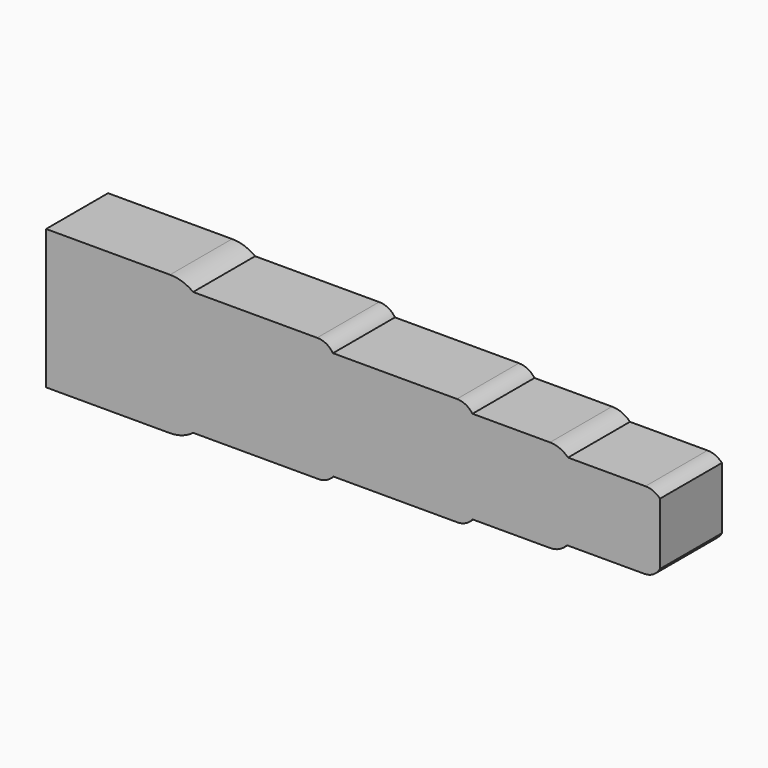
from build123d import *

# Parameters (mm, degrees)
F1_DEPTH = 25


with BuildPart() as f1:
    # F0 (on Front) → F1 (new body)
    with BuildSketch(Plane.XZ):
        with BuildLine():
            Line((-47.314354, 23.354447), (-87.314354, 23.354447))
            Line((-87.314354, 23.354447), (-87.314354, -21.645553))
            Line((-87.314354, -21.645553), (-47.314354, -21.645553))
            ThreePointArc((-47.314354, -21.645553), (-43.385175, -20.9974), (-39.872341, -19.121622))
            Line((-39.872341, -19.121622), (0.127659, -19.121622))
            ThreePointArc((0.127659, -19.121622), (3.004151, -18.596084), (5.330364, -16.824326))
            Line((5.330364, -16.824326), (45.330364, -16.824326))
            ThreePointArc((45.330364, -16.824326), (48.080166, -16.183156), (50.2628, -14.391893))
            Line((50.2628, -14.391893), (75.2628, -14.391893))
            ThreePointArc((75.2628, -14.391893), (78.280736, -13.717995), (80.725341, -11.824324))
            Line((80.725341, -11.824324), (105.725341, -11.824324))
            ThreePointArc((105.725341, -11.824324), (108.616764, -11.024161), (110.685455, -8.851352))
            Line((110.685455, -8.851352), (110.735774, 11.148648))
            ThreePointArc((110.735774, 11.148648), (108.61549, 12.646997), (106.07361, 13.175676))
            Line((106.07361, 13.175676), (81.07361, 13.175676))
            ThreePointArc((81.07361, 13.175676), (78.412493, 14.975466), (75.262801, 15.608107))
            Line((75.262801, 15.608107), (50.262801, 15.608107))
            ThreePointArc((50.262801, 15.608107), (48.062009, 17.496535), (45.242716, 18.175674))
            Line((45.242716, 18.175674), (5.242716, 18.175674))
            ThreePointArc((5.242716, 18.175674), (3.03244, 20.184226), (0.127659, 20.878378))
            Line((0.127659, 20.878378), (-39.872341, 20.878378))
            ThreePointArc((-39.872341, 20.878378), (-43.392796, 22.719186), (-47.314354, 23.354447))
        make_face()
    extrude(amount=F1_DEPTH)


solid = f1.part
